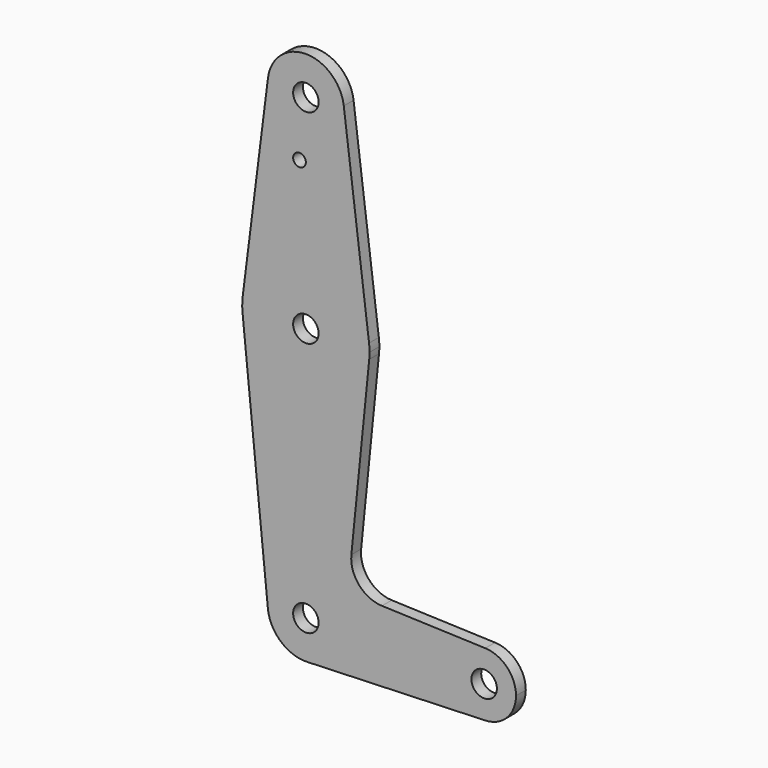
from build123d import *

# Parameters (mm, degrees)
F0_R     = 3.175
F0_R_2   = 1.5875
F1_DEPTH = 3.048


with BuildPart() as f1:
    # F0 (on Front) → F1 (new body)
    with BuildSketch(Plane.XZ):
        with BuildLine():
            ThreePointArc((9.450293, 115.490625), (0, 123.825), (-9.450293, 115.490625))
            ThreePointArc((-9.450293, 115.490625), (-0.596483, 104.793695), (9.525, 114.3))
            ThreePointArc((9.525, 114.3), (9.506305, 114.896483), (9.450293, 115.490625))
        make_face()
        with Locations((0, 114.3)):
            Circle(F0_R, mode=Mode.SUBTRACT)
        with BuildLine():
            Line((-9.450293, 115.490625), (-15.750488, 65.484375))
            ThreePointArc((-15.750488, 65.484375), (0, 79.375), (15.750488, 65.484375))
            Line((15.750488, 65.484375), (9.450293, 115.490625))
            ThreePointArc((9.450293, 115.490625), (9.506305, 114.896483), (9.525, 114.3))
            ThreePointArc((9.525, 114.3), (-0.596483, 104.793695), (-9.450293, 115.490625))
        make_face()
        with Locations((-1.5875, 100.0252)):
            Circle(F0_R_2, mode=Mode.SUBTRACT)
        with BuildLine():
            ThreePointArc((-15.750488, 65.484375), (-15.873744, 63.699705), (-15.795426, 61.9125))
            ThreePointArc((-15.795426, 61.9125), (0, 47.625), (15.795426, 61.9125))
            ThreePointArc((15.795426, 61.9125), (15.855094, 62.705253), (15.875, 63.5))
            ThreePointArc((15.875, 63.5), (15.843841, 64.494139), (15.750488, 65.484375))
            ThreePointArc((15.750488, 65.484375), (0, 79.375), (-15.750488, 65.484375))
        make_face()
        with Locations((0, 63.5)):
            Circle(F0_R, mode=Mode.SUBTRACT)
        with BuildLine():
            ThreePointArc((0.340179, -9.518923), (6.854408, -6.613827), (9.525, 0))
            ThreePointArc((9.525, 0), (-0.476848, 9.513056), (-9.477255, -0.9525))
            ThreePointArc((-9.477255, -0.9525), (-6.262383, -7.17692), (0.340179, -9.518923))
        make_face()
        Circle(F0_R, mode=Mode.SUBTRACT)
        with BuildLine():
            Line((36.5125, 0), (9.525, 0))
            ThreePointArc((9.525, 0), (6.854408, -6.613827), (0.340179, -9.518923))
            Line((0.340179, -9.518923), (44.733482, -7.932436))
            ThreePointArc((44.733482, -7.932436), (38.938477, -5.712007), (36.5125, 0))
        make_face()
        with BuildLine():
            ThreePointArc((44.733482, 7.932436), (38.938477, 5.712007), (36.5125, 0))
            ThreePointArc((36.5125, 0), (38.938477, -5.712007), (44.733482, -7.932436))
            ThreePointArc((44.733482, -7.932436), (50.162007, -5.511523), (52.3875, 0))
            ThreePointArc((52.3875, 0), (50.162007, 5.511523), (44.733482, 7.932436))
        make_face()
        with BuildLine():
            ThreePointArc((47.625, 0), (44.45, -3.175), (41.275, 0))
            ThreePointArc((41.275, 0), (44.45, 3.175), (47.625, 0))
        make_face(mode=Mode.SUBTRACT)
        with BuildLine():
            ThreePointArc((-9.477255, -0.9525), (-0.476848, 9.513056), (9.525, 0))
            Line((9.525, 0), (36.5125, 0))
            ThreePointArc((36.5125, 0), (38.938477, 5.712007), (44.733482, 7.932436))
            Line((44.733482, 7.932436), (18.9676, 8.853234))
            ThreePointArc((18.9676, 8.853234), (13.2612, 11.571359), (11.341187, 17.593382))
            Line((11.341187, 17.593382), (15.795426, 61.9125))
            ThreePointArc((15.795426, 61.9125), (0, 47.625), (-15.795426, 61.9125))
            Line((-15.795426, 61.9125), (-9.477255, -0.9525))
        make_face()
    extrude(amount=F1_DEPTH)


solid = f1.part
